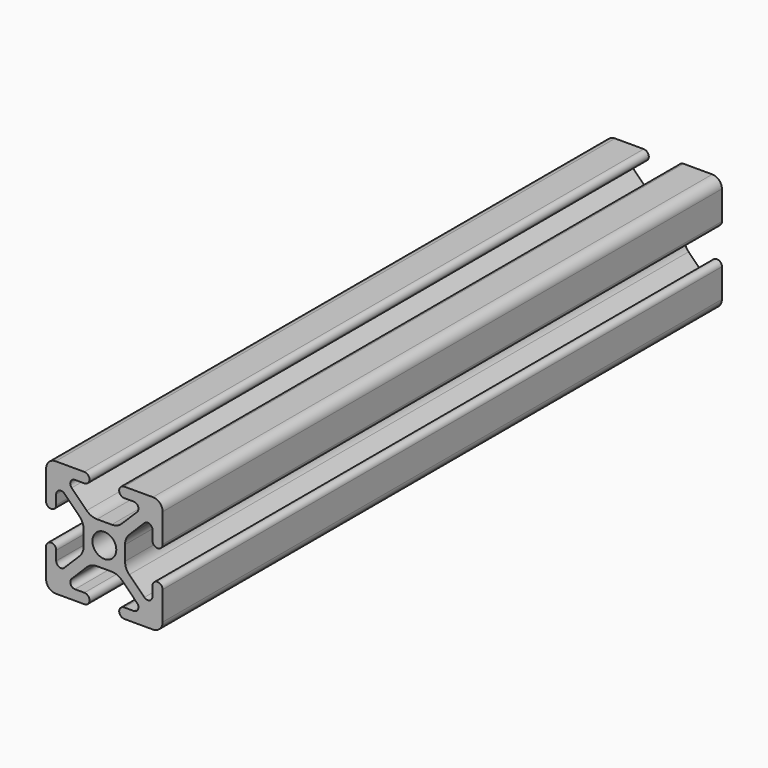
from build123d import *

# Parameters (mm, degrees)
F0_R     = 2.6035
F1_DEPTH = 152.4


with BuildPart() as f1:
    # F0 (on Front) → F1 (new body)
    with BuildSketch(Plane.XZ):
        with BuildLine():
            Line((-4.370089, 12.764578), (-10.618489, 12.764578))
            ThreePointArc((-10.618489, 12.764578), (-12.109211, 12.147101), (-12.726689, 10.656378))
            Line((-12.726689, 10.656378), (-12.726689, 4.407978))
            ThreePointArc((-12.726689, 4.407978), (-11.621789, 3.303078), (-10.516889, 4.407978))
            Line((-10.516889, 4.407978), (-10.516889, 6.464108))
            ThreePointArc((-10.516889, 6.464108), (-9.878719, 7.419196), (-8.752116, 7.195101))
            Line((-8.752116, 7.195101), (-5.465125, 3.90811))
            ThreePointArc((-5.465125, 3.90811), (-4.776871, 2.878066), (-4.535189, 1.663046))
            Line((-4.535189, 1.663046), (-4.535189, -1.533889))
            ThreePointArc((-4.535189, -1.533889), (-4.776871, -2.748909), (-5.465125, -3.778953))
            Line((-5.465125, -3.778953), (-8.752116, -7.065945))
            ThreePointArc((-8.752116, -7.065945), (-9.878719, -7.29004), (-10.516889, -6.334952))
            Line((-10.516889, -6.334952), (-10.516889, -4.278822))
            ThreePointArc((-10.516889, -4.278822), (-11.621789, -3.173922), (-12.726689, -4.278822))
            Line((-12.726689, -4.278822), (-12.726689, -10.527222))
            ThreePointArc((-12.726689, -10.527222), (-12.109211, -12.017944), (-10.618489, -12.635422))
            Line((-10.618489, -12.635422), (-4.370089, -12.635422))
            ThreePointArc((-4.370089, -12.635422), (-3.265189, -11.530522), (-4.370089, -10.425622))
            Line((-4.370089, -10.425622), (-6.426219, -10.425622))
            ThreePointArc((-6.426219, -10.425622), (-7.381307, -9.787452), (-7.157212, -8.660849))
            Line((-7.157212, -8.660849), (-3.87022, -5.373858))
            ThreePointArc((-3.87022, -5.373858), (-2.840176, -4.685604), (-1.625156, -4.443922))
            Line((-1.625156, -4.443922), (1.571779, -4.443922))
            ThreePointArc((1.571779, -4.443922), (2.786799, -4.685604), (3.816843, -5.373858))
            Line((3.816843, -5.373858), (7.103834, -8.660849))
            ThreePointArc((7.103834, -8.660849), (7.327929, -9.787452), (6.372841, -10.425622))
            Line((6.372841, -10.425622), (4.316711, -10.425622))
            ThreePointArc((4.316711, -10.425622), (3.211811, -11.530522), (4.316711, -12.635422))
            Line((4.316711, -12.635422), (10.565111, -12.635422))
            ThreePointArc((10.565111, -12.635422), (12.055834, -12.017944), (12.673311, -10.527222))
            Line((12.673311, -10.527222), (12.673311, -4.278822))
            ThreePointArc((12.673311, -4.278822), (11.568411, -3.173922), (10.463511, -4.278822))
            Line((10.463511, -4.278822), (10.463511, -6.334952))
            ThreePointArc((10.463511, -6.334952), (9.825342, -7.29004), (8.698738, -7.065945))
            Line((8.698738, -7.065945), (5.411747, -3.778953))
            ThreePointArc((5.411747, -3.778953), (4.723494, -2.748909), (4.481811, -1.533889))
            Line((4.481811, -1.533889), (4.481811, 1.663046))
            ThreePointArc((4.481811, 1.663046), (4.723494, 2.878066), (5.411747, 3.90811))
            Line((5.411747, 3.90811), (8.698738, 7.195101))
            ThreePointArc((8.698738, 7.195101), (9.825342, 7.419196), (10.463511, 6.464108))
            Line((10.463511, 6.464108), (10.463511, 4.407978))
            ThreePointArc((10.463511, 4.407978), (11.568411, 3.303078), (12.673311, 4.407978))
            Line((12.673311, 4.407978), (12.673311, 10.656378))
            ThreePointArc((12.673311, 10.656378), (12.055834, 12.147101), (10.565111, 12.764578))
            Line((10.565111, 12.764578), (4.316711, 12.764578))
            ThreePointArc((4.316711, 12.764578), (3.211811, 11.659678), (4.316711, 10.554778))
            Line((4.316711, 10.554778), (6.372841, 10.554778))
            ThreePointArc((6.372841, 10.554778), (7.327929, 9.916609), (7.103834, 8.790005))
            Line((7.103834, 8.790005), (3.816843, 5.503014))
            ThreePointArc((3.816843, 5.503014), (2.786799, 4.814761), (1.571779, 4.573078))
            Line((1.571779, 4.573078), (-1.625156, 4.573078))
            ThreePointArc((-1.625156, 4.573078), (-2.840176, 4.814761), (-3.87022, 5.503014))
            Line((-3.87022, 5.503014), (-7.157212, 8.790005))
            ThreePointArc((-7.157212, 8.790005), (-7.381307, 9.916609), (-6.426219, 10.554778))
            Line((-6.426219, 10.554778), (-4.370089, 10.554778))
            ThreePointArc((-4.370089, 10.554778), (-3.265189, 11.659678), (-4.370089, 12.764578))
        make_face()
        with Locations((-0.026689, 0.064578)):
            Circle(F0_R, mode=Mode.SUBTRACT)
    extrude(amount=F1_DEPTH)


solid = f1.part
